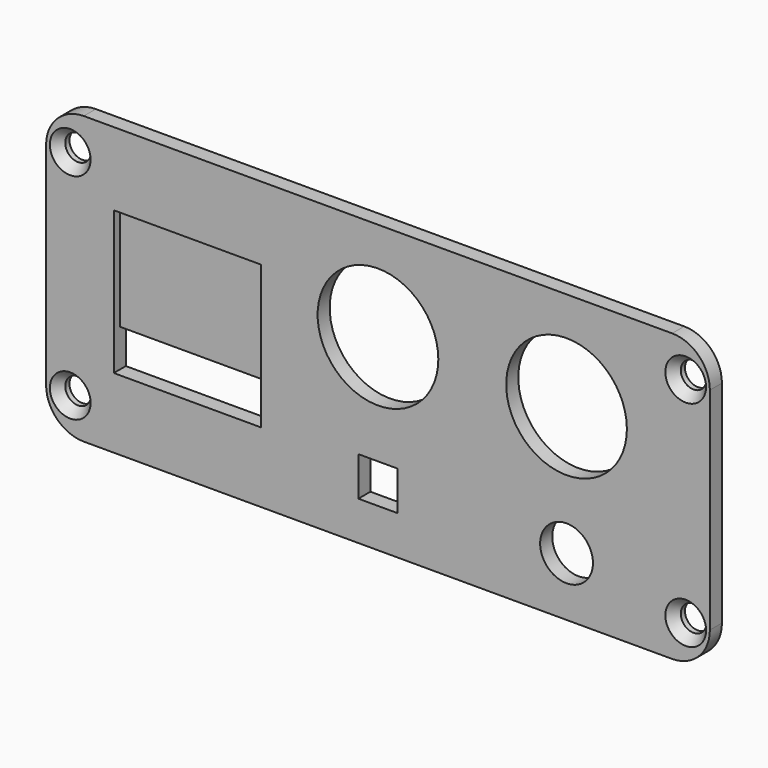
from build123d import *

# Parameters (mm, degrees)
F0_W           = 88
F0_H           = 38
F0_R           = 1.7
F0_W_2         = 5.2
F0_H_2         = 5.2
F0_R_2         = 3.5
F0_R_3         = 8
F1_DEPTH       = 2
F2_R           = 5
F3_D           = 3
F3_DEPTH       = 13.5
F3_CSINK_D     = 5.4
F3_CSINK_ANGLE = 75
F0_W_3         = 19.5
F0_H_3         = 14
F4_DEPTH       = 2
F5_DEPTH       = 1


with BuildPart() as f1:
    # F0 (on Front) → F1 (new body)
    with BuildSketch(Plane.XZ):
        with Locations((-44, 19)):
            Rectangle(F0_W, F0_H)
        with Locations((-84.8, 4.8)):
            Circle(F0_R, mode=Mode.SUBTRACT)
        Polygon((-79.026386, 14.297835), (-79.026386, 28.297835), (-59.526386, 28.297835), (-59.526386, 14.297835), (-59.526386, 9.297835), (-79.026386, 9.297835), align=None, mode=Mode.SUBTRACT)
        with Locations((-44, 7.777472)):
            Rectangle(F0_W_2, F0_H_2, mode=Mode.SUBTRACT)
        with Locations((-19, 7.777472)):
            Circle(F0_R_2, mode=Mode.SUBTRACT)
        with Locations((-3.2, 4.8)):
            Circle(F0_R, mode=Mode.SUBTRACT)
        with Locations((-84.8, 33.2)):
            Circle(F0_R, mode=Mode.SUBTRACT)
        with Locations((-44, 24.894385)):
            Circle(F0_R_3, mode=Mode.SUBTRACT)
        with Locations((-19, 24.894385)):
            Circle(F0_R_3, mode=Mode.SUBTRACT)
        with Locations((-3.2, 33.2)):
            Circle(F0_R, mode=Mode.SUBTRACT)
    extrude(amount=-F1_DEPTH)

    # F2
    f2_edges = [f1.edges().sort_by_distance(p)[0] for p in [
        (-88, 1, 38),
        (-88, 1, 0),
        (0, 1, 0),
        (0, 1, 38),
    ]]
    fillet(f2_edges, radius=F2_R)

    # F3
    with Locations(Plane.XZ):
        with Locations((-84.8, 4.8), (-84.8, 33.2), (-3.2, 4.8), (-3.2, 33.2)):
            CounterSinkHole(F3_D / 2, F3_CSINK_D / 2, depth=F3_DEPTH, counter_sink_angle=F3_CSINK_ANGLE)


with BuildPart() as f4:
    # F0 (on Front) → F4 (new body)
    with BuildSketch(Plane.XZ):
        with Locations((-69.276386, 21.297835)):
            Rectangle(F0_W_3, F0_H_3)
    extrude(amount=-F4_DEPTH)

    # F0 (on Front) → F5 (cut)
    with BuildSketch(Plane.XZ):
        with Locations((-69.276386, 21.297835)):
            Rectangle(F0_W_3, F0_H_3)
    extrude(amount=-F5_DEPTH, mode=Mode.SUBTRACT)


solid = Compound([f1.part, f4.part])
